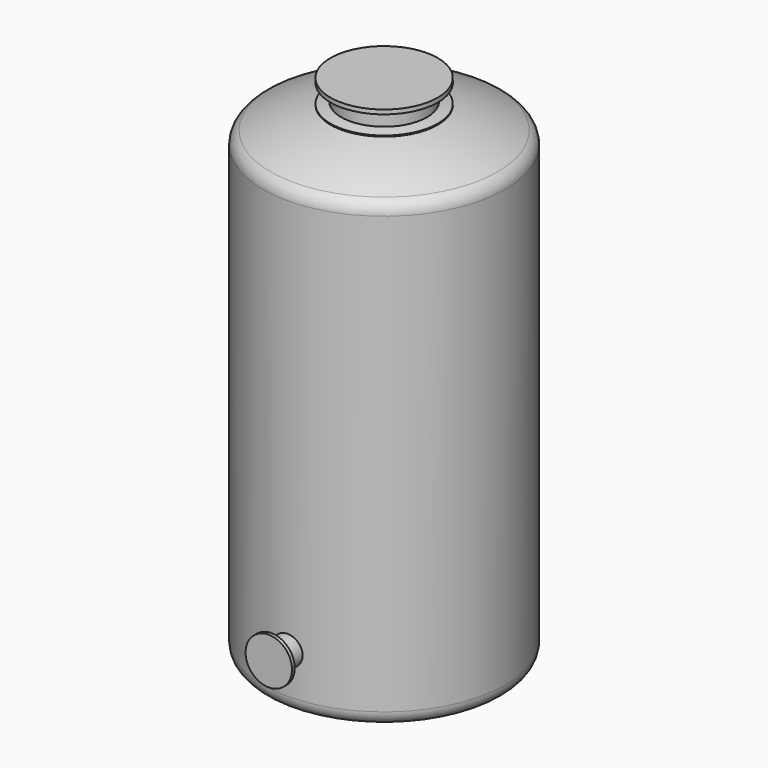
from build123d import *

# Parameters (mm, degrees)
F2_R     = 86.53
F2_R_2   = 70.65
F3_DEPTH = 833
F4_R     = 137.33
F5_DEPTH = 20
F2_R_3   = 31.65
F6_DEPTH = 833
F7_R     = 82.05
F8_DEPTH = 20


with BuildPart() as f1:
    # F0 (on Front) → F1 (revolve)
    with BuildSketch(Plane.XZ):
        with BuildLine():
            Line((716, -1290.5), (716, -1204.5))
            Line((716, -1204.5), (716, 1204.5))
            Line((716, 1204.5), (716, 1290.5))
            ThreePointArc((716, 1290.5), (703.68081, 1334.852432), (670.2526, 1366.498212))
            ThreePointArc((670.2526, 1366.498212), (498.194252, 1443.584399), (317.5, 1497.398365))
            Line((317.5, 1497.398365), (317.5, 1503.550848))
            ThreePointArc((317.5, 1503.550848), (285.822543, 1510.347772), (254, 1516.429317))
            Line((254, 1516.429317), (254, 1613.639618))
            Line((254, 1613.639618), (317.5, 1613.639618))
            Line((317.5, 1613.639618), (317.5, 1639.039618))
            Line((317.5, 1639.039618), (0, 1639.039618))
            Line((0, 1639.039618), (0, 1539.039618))
            Line((0, 1539.039618), (0, 1533.039618))
            Line((0, 1533.039618), (0, 1204.5))
            Line((0, 1204.5), (0, -1204.5))
            Line((0, -1204.5), (0, -1533.039618))
            Line((0, -1533.039618), (0, -1539.039618))
            Line((0, -1539.039618), (0, -1639.039618))
            Line((0, -1639.039618), (63.5, -1639.039618))
            Line((63.5, -1639.039618), (63.5, -1619.989618))
            Line((63.5, -1619.989618), (38.1, -1619.989618))
            Line((38.1, -1619.989618), (38.1, -1538.534797))
            ThreePointArc((38.1, -1538.534797), (50.801984, -1538.141966), (63.5, -1537.6369))
            Line((63.5, -1537.6369), (63.5, -1531.631017))
            ThreePointArc((63.5, -1531.631017), (376.05243, -1482.780755), (670.2526, -1366.498212))
            ThreePointArc((670.2526, -1366.498212), (703.68081, -1334.852432), (716, -1290.5))
        make_face()
    revolve(axis=Axis((0, 0, 0), (0, 0, 1)))

    # F2 (on Front) → F3 (join)
    with BuildSketch(Plane.XZ):
        with Locations((0, -1051.5)):
            Circle(F2_R)
        with Locations((0, -1051.5)):
            Circle(F2_R_2, mode=Mode.SUBTRACT)
    extrude(amount=F3_DEPTH)

    # F4 (on face) → F5 (join)
    with BuildSketch(Plane.XZ.offset(833)):
        with Locations((0, -1051.5)):
            Circle(F4_R)
    extrude(amount=F5_DEPTH)

    # F2 (on Front) → F6 (join)
    with BuildSketch(Plane.XZ):
        with Locations((0, 1101.5)):
            Circle(F2_R_3)
    extrude(amount=-F6_DEPTH)

    # F7 (on face) → F8 (join)
    with BuildSketch(Plane(origin=(0, 833, 0), x_dir=(-1, 0, 0), z_dir=(0, 1, 0))):
        with Locations((0, 1101.5)):
            Circle(F7_R)
    extrude(amount=F8_DEPTH)


solid = f1.part
